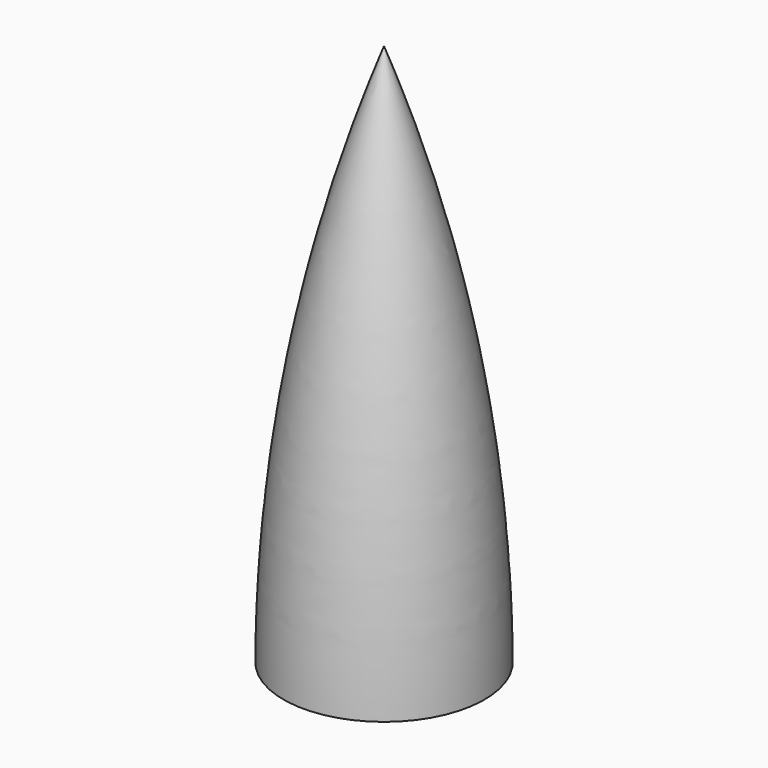
from build123d import *


with BuildPart() as f1:
    # F0 (on Right) → F1 (revolve)
    with BuildSketch(Plane.YZ):
        with BuildLine():
            Line((241.3, 783.817709), (241.3, 0))
            Line((241.3, 0), (720.4799, 0))
            ThreePointArc((720.4799, 0), (534.313344, 1977.033387), (0, 3889.578354))
            Line((0, 3889.578354), (0, 1574.8))
            Line((0, 1574.8), (241.3, 1574.8))
            Line((241.3, 1574.8), (241.3, 783.817709))
        make_face()
    revolve(axis=Axis((0, 0, 2378.301468), (0, 0, 1)))


solid = f1.part
